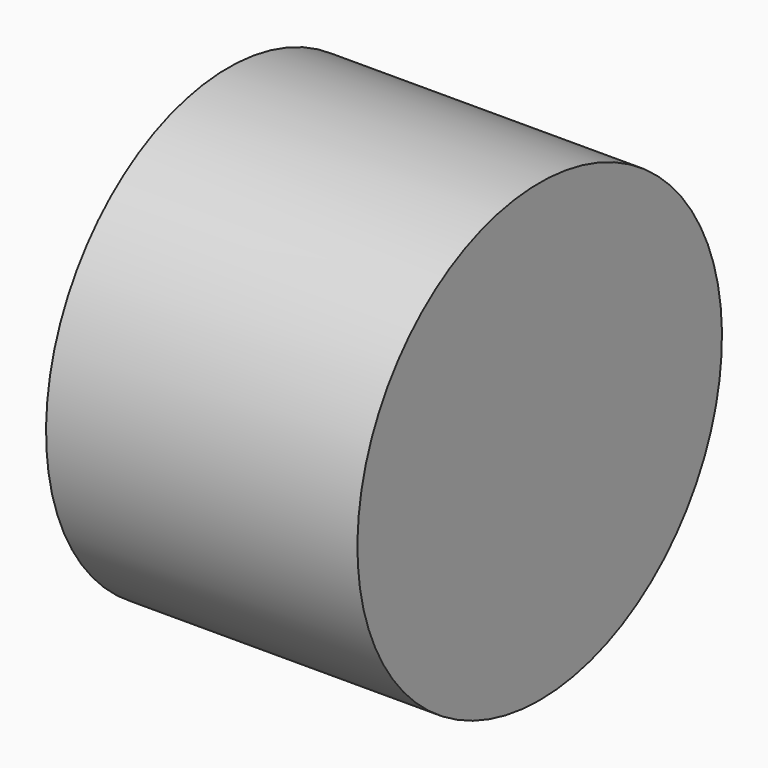
from build123d import *

# Parameters (mm, degrees)
CYLINDER056_R     = 1.25
CYLINDER056_DEPTH = 5
CYLINDER032_R     = 3
CYLINDER032_DEPTH = 4.1


with BuildPart() as b_w003:
    # Cylinder056 → Cylinder056 (new body)
    with BuildSketch(Plane(origin=(2, 26, 26), x_dir=(0, 0, 1), z_dir=(-1, 0, 0))):
        Circle(CYLINDER056_R)
    extrude(amount=CYLINDER056_DEPTH)


with BuildPart() as cut022:
    # Cylinder032 → Cylinder032 (new body)
    with BuildSketch(Plane(origin=(-1, 26, 26), x_dir=(0, 0, -1), z_dir=(1, 0, 0))):
        Circle(CYLINDER032_R)
    extrude(amount=CYLINDER032_DEPTH)

    # Cut022: cut B_W003
    add(b_w003.part, mode=Mode.SUBTRACT)


solid = cut022.part
